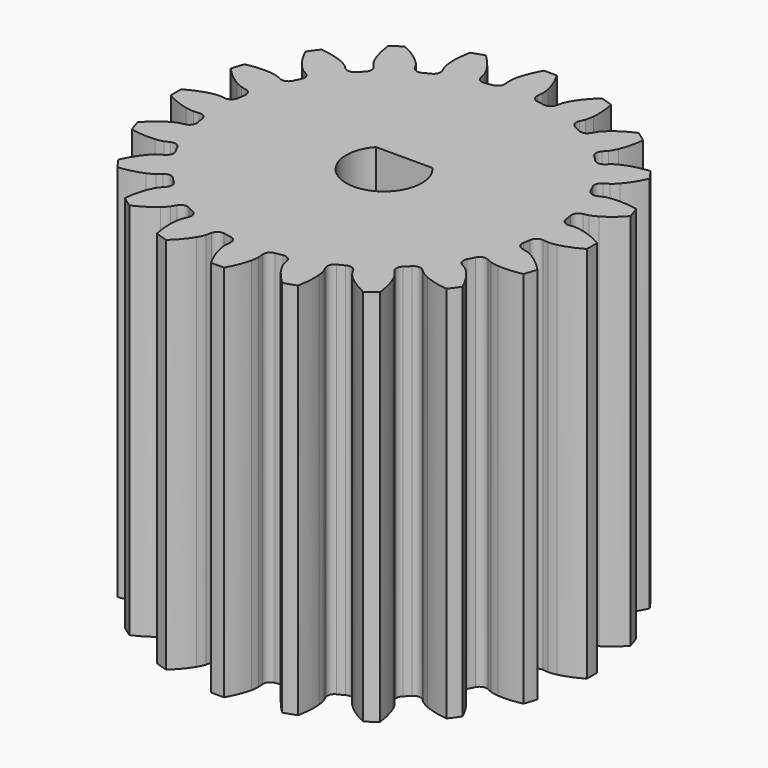
from build123d import *

# Parameters (mm, degrees)
PAD001_DEPTH = 15
PAD_DEPTH    = 15


with BuildPart() as body001:
    # Sketch → Pad001 (new body)
    with BuildSketch(Plane.XY):
        with BuildLine():
            ThreePointArc((-1.12, 1), (0, -1.501466), (1.12, 1))
            Line((-1.12, 1), (1.12, 1))
        make_face()
    extrude(amount=PAD001_DEPTH)


with BuildPart() as cut:
    # InvoluteGear → Pad (new body)
    with BuildSketch(Plane.XY):
        with BuildLine():
            Line((6.817626, -0.638928), (7.030391, -0.658303))
            add(Edge.make_bspline(
                [(7.030391, -0.658303), (7.065816, -0.659435), (7.172447, -0.658515), (7.350357, -0.619995)],
                knots=[0, 0, 0, 0, 1, 1, 1, 1], degree=3))
            add(Edge.make_bspline(
                [(7.350357, -0.619995), (7.563176, -0.573208), (7.869437, -0.473051), (8.246716, -0.260226)],
                knots=[0, 0, 0, 0, 1, 1, 1, 1], degree=3))
            ThreePointArc((8.246716, -0.260226), (8.250411, 0.000162), (8.245885, 0.260537))
            add(Edge.make_bspline(
                [(8.245885, 0.260537), (7.869437, 0.473051), (7.563176, 0.573208), (7.350357, 0.619995)],
                knots=[0, 0, 0, 0, 1, 1, 1, 1], degree=3))
            add(Edge.make_bspline(
                [(7.350357, 0.619995), (7.172447, 0.658515), (7.065816, 0.659435), (7.030391, 0.658303)],
                knots=[0, 0, 0, 0, 1, 1, 1, 1], degree=3))
            Line((7.030391, 0.658303), (6.817626, 0.638928))
            ThreePointArc((6.817626, 0.638928), (6.6103, 0.696997), (6.502754, 0.883517))
            ThreePointArc((6.502754, 0.883517), (6.481705, 1.026601), (6.457508, 1.169187))
            ThreePointArc((6.457508, 1.169187), (6.502153, 1.379812), (6.681388, 1.499105))
            Line((6.681388, 1.499105), (6.889726, 1.546427))
            add(Edge.make_bspline(
                [(6.889726, 1.546427), (6.923767, 1.556297), (7.024895, 1.590123), (7.182194, 1.681735)],
                knots=[0, 0, 0, 0, 1, 1, 1, 1], degree=3))
            add(Edge.make_bspline(
                [(7.182194, 1.681735), (7.370139, 1.791996), (7.63046, 1.981891), (7.923507, 2.300886)],
                knots=[0, 0, 0, 0, 1, 1, 1, 1], degree=3))
            ThreePointArc((7.923507, 2.300886), (7.846557, 2.549671), (7.761792, 2.795904))
            add(Edge.make_bspline(
                [(7.761792, 2.795904), (7.338098, 2.881688), (7.015877, 2.882303), (6.799016, 2.861036)],
                knots=[0, 0, 0, 0, 1, 1, 1, 1], degree=3))
            add(Edge.make_bspline(
                [(6.799016, 2.861036), (6.61791, 2.842693), (6.516214, 2.810617), (6.482872, 2.798593)],
                knots=[0, 0, 0, 0, 1, 1, 1, 1], degree=3))
            Line((6.482872, 2.798593), (6.286508, 2.714419))
            ThreePointArc((6.286508, 2.714419), (6.071385, 2.705578), (5.911464, 2.849736))
            ThreePointArc((5.911464, 2.849736), (5.84723, 2.979313), (5.780156, 3.107442))
            ThreePointArc((5.780156, 3.107442), (5.757529, 3.321555), (5.891128, 3.490396))
            Line((5.891128, 3.490396), (6.074646, 3.599782))
            add(Edge.make_bspline(
                [(6.074646, 3.599782), (6.103972, 3.619689), (6.189697, 3.683109), (6.310988, 3.818845)],
                knots=[0, 0, 0, 0, 1, 1, 1, 1], degree=3))
            add(Edge.make_bspline(
                [(6.310988, 3.818845), (6.455661, 3.981788), (6.644561, 4.242832), (6.82469, 4.636771)],
                knots=[0, 0, 0, 0, 1, 1, 1, 1], degree=3))
            ThreePointArc((6.82469, 4.636771), (6.674627, 4.849601), (6.517922, 5.057588))
            add(Edge.make_bspline(
                [(6.517922, 5.057588), (6.088456, 5.008245), (5.781814, 4.909258), (5.58214, 4.822018)],
                knots=[0, 0, 0, 0, 1, 1, 1, 1], degree=3))
            add(Edge.make_bspline(
                [(5.58214, 4.822018), (5.415566, 4.748609), (5.328759, 4.686677), (5.300765, 4.664938)],
                knots=[0, 0, 0, 0, 1, 1, 1, 1], degree=3))
            Line((5.300765, 4.664938), (5.140023, 4.524204))
            ThreePointArc((5.140023, 4.524204), (4.938161, 4.449319), (4.74152, 4.537003))
            ThreePointArc((4.74152, 4.537003), (4.640388, 4.640388), (4.537003, 4.74152))
            ThreePointArc((4.537003, 4.74152), (4.449319, 4.938161), (4.524204, 5.140023))
            Line((4.524204, 5.140023), (4.664938, 5.300765))
            add(Edge.make_bspline(
                [(4.664938, 5.300765), (4.686677, 5.328759), (4.748609, 5.415566), (4.822018, 5.58214)],
                knots=[0, 0, 0, 0, 1, 1, 1, 1], degree=3))
            add(Edge.make_bspline(
                [(4.822018, 5.58214), (4.909258, 5.781814), (5.008245, 6.088456), (5.057825, 6.518777)],
                knots=[0, 0, 0, 0, 1, 1, 1, 1], degree=3))
            ThreePointArc((5.057825, 6.518777), (4.849339, 6.674818), (4.636031, 6.824201))
            add(Edge.make_bspline(
                [(4.636031, 6.824201), (4.242832, 6.644561), (3.981788, 6.455661), (3.818845, 6.310988)],
                knots=[0, 0, 0, 0, 1, 1, 1, 1], degree=3))
            add(Edge.make_bspline(
                [(3.818845, 6.310988), (3.683109, 6.189697), (3.619689, 6.103972), (3.599782, 6.074646)],
                knots=[0, 0, 0, 0, 1, 1, 1, 1], degree=3))
            Line((3.599782, 6.074646), (3.490396, 5.891128))
            ThreePointArc((3.490396, 5.891128), (3.321555, 5.757529), (3.107442, 5.780156))
            ThreePointArc((3.107442, 5.780156), (2.979313, 5.84723), (2.849736, 5.911464))
            ThreePointArc((2.849736, 5.911464), (2.705578, 6.071385), (2.714419, 6.286508))
            Line((2.714419, 6.286508), (2.798593, 6.482872))
            add(Edge.make_bspline(
                [(2.798593, 6.482872), (2.810617, 6.516214), (2.842693, 6.61791), (2.861036, 6.799016)],
                knots=[0, 0, 0, 0, 1, 1, 1, 1], degree=3))
            add(Edge.make_bspline(
                [(2.861036, 6.799016), (2.882303, 7.015877), (2.881688, 7.338098), (2.795865, 7.762679)],
                knots=[0, 0, 0, 0, 1, 1, 1, 1], degree=3))
            ThreePointArc((2.795865, 7.762679), (2.549363, 7.846657), (2.300334, 7.922813))
            add(Edge.make_bspline(
                [(2.300334, 7.922813), (1.981891, 7.63046), (1.791996, 7.370139), (1.681735, 7.182194)],
                knots=[0, 0, 0, 0, 1, 1, 1, 1], degree=3))
            add(Edge.make_bspline(
                [(1.681735, 7.182194), (1.590123, 7.024895), (1.556297, 6.923767), (1.546427, 6.889726)],
                knots=[0, 0, 0, 0, 1, 1, 1, 1], degree=3))
            Line((1.546427, 6.889726), (1.499105, 6.681388))
            ThreePointArc((1.499105, 6.681388), (1.379812, 6.502153), (1.169187, 6.457508))
            ThreePointArc((1.169187, 6.457508), (1.026601, 6.481705), (0.883517, 6.502754))
            ThreePointArc((0.883517, 6.502754), (0.696997, 6.6103), (0.638928, 6.817626))
            Line((0.638928, 6.817626), (0.658303, 7.030391))
            add(Edge.make_bspline(
                [(0.658303, 7.030391), (0.659435, 7.065816), (0.658515, 7.172447), (0.619995, 7.350357)],
                knots=[0, 0, 0, 0, 1, 1, 1, 1], degree=3))
            add(Edge.make_bspline(
                [(0.619995, 7.350357), (0.573208, 7.563176), (0.473051, 7.869437), (0.260226, 8.246716)],
                knots=[0, 0, 0, 0, 1, 1, 1, 1], degree=3))
            ThreePointArc((0.260226, 8.246716), (-0.000162, 8.250411), (-0.260537, 8.245885))
            add(Edge.make_bspline(
                [(-0.260537, 8.245885), (-0.473051, 7.869437), (-0.573208, 7.563176), (-0.619995, 7.350357)],
                knots=[0, 0, 0, 0, 1, 1, 1, 1], degree=3))
            add(Edge.make_bspline(
                [(-0.619995, 7.350357), (-0.658515, 7.172447), (-0.659435, 7.065816), (-0.658303, 7.030391)],
                knots=[0, 0, 0, 0, 1, 1, 1, 1], degree=3))
            Line((-0.658303, 7.030391), (-0.638928, 6.817626))
            ThreePointArc((-0.638928, 6.817626), (-0.696997, 6.6103), (-0.883517, 6.502754))
            ThreePointArc((-0.883517, 6.502754), (-1.026601, 6.481705), (-1.169187, 6.457508))
            ThreePointArc((-1.169187, 6.457508), (-1.379812, 6.502153), (-1.499105, 6.681388))
            Line((-1.499105, 6.681388), (-1.546427, 6.889726))
            add(Edge.make_bspline(
                [(-1.546427, 6.889726), (-1.556297, 6.923767), (-1.590123, 7.024895), (-1.681735, 7.182194)],
                knots=[0, 0, 0, 0, 1, 1, 1, 1], degree=3))
            add(Edge.make_bspline(
                [(-1.681735, 7.182194), (-1.791996, 7.370139), (-1.981891, 7.63046), (-2.300886, 7.923507)],
                knots=[0, 0, 0, 0, 1, 1, 1, 1], degree=3))
            ThreePointArc((-2.300886, 7.923507), (-2.549671, 7.846557), (-2.795904, 7.761792))
            add(Edge.make_bspline(
                [(-2.795904, 7.761792), (-2.881688, 7.338098), (-2.882303, 7.015877), (-2.861036, 6.799016)],
                knots=[0, 0, 0, 0, 1, 1, 1, 1], degree=3))
            add(Edge.make_bspline(
                [(-2.861036, 6.799016), (-2.842693, 6.61791), (-2.810617, 6.516214), (-2.798593, 6.482872)],
                knots=[0, 0, 0, 0, 1, 1, 1, 1], degree=3))
            Line((-2.798593, 6.482872), (-2.714419, 6.286508))
            ThreePointArc((-2.714419, 6.286508), (-2.705578, 6.071385), (-2.849736, 5.911464))
            ThreePointArc((-2.849736, 5.911464), (-2.979313, 5.84723), (-3.107442, 5.780156))
            ThreePointArc((-3.107442, 5.780156), (-3.321555, 5.757529), (-3.490396, 5.891128))
            Line((-3.490396, 5.891128), (-3.599782, 6.074646))
            add(Edge.make_bspline(
                [(-3.599782, 6.074646), (-3.619689, 6.103972), (-3.683109, 6.189697), (-3.818845, 6.310988)],
                knots=[0, 0, 0, 0, 1, 1, 1, 1], degree=3))
            add(Edge.make_bspline(
                [(-3.818845, 6.310988), (-3.981788, 6.455661), (-4.242832, 6.644561), (-4.636771, 6.82469)],
                knots=[0, 0, 0, 0, 1, 1, 1, 1], degree=3))
            ThreePointArc((-4.636771, 6.82469), (-4.849601, 6.674627), (-5.057588, 6.517922))
            add(Edge.make_bspline(
                [(-5.057588, 6.517922), (-5.008245, 6.088456), (-4.909258, 5.781814), (-4.822018, 5.58214)],
                knots=[0, 0, 0, 0, 1, 1, 1, 1], degree=3))
            add(Edge.make_bspline(
                [(-4.822018, 5.58214), (-4.748609, 5.415566), (-4.686677, 5.328759), (-4.664938, 5.300765)],
                knots=[0, 0, 0, 0, 1, 1, 1, 1], degree=3))
            Line((-4.664938, 5.300765), (-4.524204, 5.140023))
            ThreePointArc((-4.524204, 5.140023), (-4.449319, 4.938161), (-4.537003, 4.74152))
            ThreePointArc((-4.537003, 4.74152), (-4.640388, 4.640388), (-4.74152, 4.537003))
            ThreePointArc((-4.74152, 4.537003), (-4.938161, 4.449319), (-5.140023, 4.524204))
            Line((-5.140023, 4.524204), (-5.300765, 4.664938))
            add(Edge.make_bspline(
                [(-5.300765, 4.664938), (-5.328759, 4.686677), (-5.415566, 4.748609), (-5.58214, 4.822018)],
                knots=[0, 0, 0, 0, 1, 1, 1, 1], degree=3))
            add(Edge.make_bspline(
                [(-5.58214, 4.822018), (-5.781814, 4.909258), (-6.088456, 5.008245), (-6.518777, 5.057825)],
                knots=[0, 0, 0, 0, 1, 1, 1, 1], degree=3))
            ThreePointArc((-6.518777, 5.057825), (-6.674818, 4.849339), (-6.824201, 4.636031))
            add(Edge.make_bspline(
                [(-6.824201, 4.636031), (-6.644561, 4.242832), (-6.455661, 3.981788), (-6.310988, 3.818845)],
                knots=[0, 0, 0, 0, 1, 1, 1, 1], degree=3))
            add(Edge.make_bspline(
                [(-6.310988, 3.818845), (-6.189697, 3.683109), (-6.103972, 3.619689), (-6.074646, 3.599782)],
                knots=[0, 0, 0, 0, 1, 1, 1, 1], degree=3))
            Line((-6.074646, 3.599782), (-5.891128, 3.490396))
            ThreePointArc((-5.891128, 3.490396), (-5.757529, 3.321555), (-5.780156, 3.107442))
            ThreePointArc((-5.780156, 3.107442), (-5.84723, 2.979313), (-5.911464, 2.849736))
            ThreePointArc((-5.911464, 2.849736), (-6.071385, 2.705578), (-6.286508, 2.714419))
            Line((-6.286508, 2.714419), (-6.482872, 2.798593))
            add(Edge.make_bspline(
                [(-6.482872, 2.798593), (-6.516214, 2.810617), (-6.61791, 2.842693), (-6.799016, 2.861036)],
                knots=[0, 0, 0, 0, 1, 1, 1, 1], degree=3))
            add(Edge.make_bspline(
                [(-6.799016, 2.861036), (-7.015877, 2.882303), (-7.338098, 2.881688), (-7.762679, 2.795865)],
                knots=[0, 0, 0, 0, 1, 1, 1, 1], degree=3))
            ThreePointArc((-7.762679, 2.795865), (-7.846657, 2.549363), (-7.922813, 2.300334))
            add(Edge.make_bspline(
                [(-7.922813, 2.300334), (-7.63046, 1.981891), (-7.370139, 1.791996), (-7.182194, 1.681735)],
                knots=[0, 0, 0, 0, 1, 1, 1, 1], degree=3))
            add(Edge.make_bspline(
                [(-7.182194, 1.681735), (-7.024895, 1.590123), (-6.923767, 1.556297), (-6.889726, 1.546427)],
                knots=[0, 0, 0, 0, 1, 1, 1, 1], degree=3))
            Line((-6.889726, 1.546427), (-6.681388, 1.499105))
            ThreePointArc((-6.681388, 1.499105), (-6.502153, 1.379812), (-6.457508, 1.169187))
            ThreePointArc((-6.457508, 1.169187), (-6.481705, 1.026601), (-6.502754, 0.883517))
            ThreePointArc((-6.502754, 0.883517), (-6.6103, 0.696997), (-6.817626, 0.638928))
            Line((-6.817626, 0.638928), (-7.030391, 0.658303))
            add(Edge.make_bspline(
                [(-7.030391, 0.658303), (-7.065816, 0.659435), (-7.172447, 0.658515), (-7.350357, 0.619995)],
                knots=[0, 0, 0, 0, 1, 1, 1, 1], degree=3))
            add(Edge.make_bspline(
                [(-7.350357, 0.619995), (-7.563176, 0.573208), (-7.869437, 0.473051), (-8.246716, 0.260226)],
                knots=[0, 0, 0, 0, 1, 1, 1, 1], degree=3))
            ThreePointArc((-8.246716, 0.260226), (-8.250411, -0.000162), (-8.245885, -0.260537))
            add(Edge.make_bspline(
                [(-8.245885, -0.260537), (-7.869437, -0.473051), (-7.563176, -0.573208), (-7.350357, -0.619995)],
                knots=[0, 0, 0, 0, 1, 1, 1, 1], degree=3))
            add(Edge.make_bspline(
                [(-7.350357, -0.619995), (-7.172447, -0.658515), (-7.065816, -0.659435), (-7.030391, -0.658303)],
                knots=[0, 0, 0, 0, 1, 1, 1, 1], degree=3))
            Line((-7.030391, -0.658303), (-6.817626, -0.638928))
            ThreePointArc((-6.817626, -0.638928), (-6.6103, -0.696997), (-6.502754, -0.883517))
            ThreePointArc((-6.502754, -0.883517), (-6.481705, -1.026601), (-6.457508, -1.169187))
            ThreePointArc((-6.457508, -1.169187), (-6.502153, -1.379812), (-6.681388, -1.499105))
            Line((-6.681388, -1.499105), (-6.889726, -1.546427))
            add(Edge.make_bspline(
                [(-6.889726, -1.546427), (-6.923767, -1.556297), (-7.024895, -1.590123), (-7.182194, -1.681735)],
                knots=[0, 0, 0, 0, 1, 1, 1, 1], degree=3))
            add(Edge.make_bspline(
                [(-7.182194, -1.681735), (-7.370139, -1.791996), (-7.63046, -1.981891), (-7.923507, -2.300886)],
                knots=[0, 0, 0, 0, 1, 1, 1, 1], degree=3))
            ThreePointArc((-7.923507, -2.300886), (-7.846557, -2.549671), (-7.761792, -2.795904))
            add(Edge.make_bspline(
                [(-7.761792, -2.795904), (-7.338098, -2.881688), (-7.015877, -2.882303), (-6.799016, -2.861036)],
                knots=[0, 0, 0, 0, 1, 1, 1, 1], degree=3))
            add(Edge.make_bspline(
                [(-6.799016, -2.861036), (-6.61791, -2.842693), (-6.516214, -2.810617), (-6.482872, -2.798593)],
                knots=[0, 0, 0, 0, 1, 1, 1, 1], degree=3))
            Line((-6.482872, -2.798593), (-6.286508, -2.714419))
            ThreePointArc((-6.286508, -2.714419), (-6.071385, -2.705578), (-5.911464, -2.849736))
            ThreePointArc((-5.911464, -2.849736), (-5.84723, -2.979313), (-5.780156, -3.107442))
            ThreePointArc((-5.780156, -3.107442), (-5.757529, -3.321555), (-5.891128, -3.490396))
            Line((-5.891128, -3.490396), (-6.074646, -3.599782))
            add(Edge.make_bspline(
                [(-6.074646, -3.599782), (-6.103972, -3.619689), (-6.189697, -3.683109), (-6.310988, -3.818845)],
                knots=[0, 0, 0, 0, 1, 1, 1, 1], degree=3))
            add(Edge.make_bspline(
                [(-6.310988, -3.818845), (-6.455661, -3.981788), (-6.644561, -4.242832), (-6.82469, -4.636771)],
                knots=[0, 0, 0, 0, 1, 1, 1, 1], degree=3))
            ThreePointArc((-6.82469, -4.636771), (-6.674627, -4.849601), (-6.517922, -5.057588))
            add(Edge.make_bspline(
                [(-6.517922, -5.057588), (-6.088456, -5.008245), (-5.781814, -4.909258), (-5.58214, -4.822018)],
                knots=[0, 0, 0, 0, 1, 1, 1, 1], degree=3))
            add(Edge.make_bspline(
                [(-5.58214, -4.822018), (-5.415566, -4.748609), (-5.328759, -4.686677), (-5.300765, -4.664938)],
                knots=[0, 0, 0, 0, 1, 1, 1, 1], degree=3))
            Line((-5.300765, -4.664938), (-5.140023, -4.524204))
            ThreePointArc((-5.140023, -4.524204), (-4.938161, -4.449319), (-4.74152, -4.537003))
            ThreePointArc((-4.74152, -4.537003), (-4.640388, -4.640388), (-4.537003, -4.74152))
            ThreePointArc((-4.537003, -4.74152), (-4.449319, -4.938161), (-4.524204, -5.140023))
            Line((-4.524204, -5.140023), (-4.664938, -5.300765))
            add(Edge.make_bspline(
                [(-4.664938, -5.300765), (-4.686677, -5.328759), (-4.748609, -5.415566), (-4.822018, -5.58214)],
                knots=[0, 0, 0, 0, 1, 1, 1, 1], degree=3))
            add(Edge.make_bspline(
                [(-4.822018, -5.58214), (-4.909258, -5.781814), (-5.008245, -6.088456), (-5.057825, -6.518777)],
                knots=[0, 0, 0, 0, 1, 1, 1, 1], degree=3))
            ThreePointArc((-5.057825, -6.518777), (-4.849339, -6.674818), (-4.636031, -6.824201))
            add(Edge.make_bspline(
                [(-4.636031, -6.824201), (-4.242832, -6.644561), (-3.981788, -6.455661), (-3.818845, -6.310988)],
                knots=[0, 0, 0, 0, 1, 1, 1, 1], degree=3))
            add(Edge.make_bspline(
                [(-3.818845, -6.310988), (-3.683109, -6.189697), (-3.619689, -6.103972), (-3.599782, -6.074646)],
                knots=[0, 0, 0, 0, 1, 1, 1, 1], degree=3))
            Line((-3.599782, -6.074646), (-3.490396, -5.891128))
            ThreePointArc((-3.490396, -5.891128), (-3.321555, -5.757529), (-3.107442, -5.780156))
            ThreePointArc((-3.107442, -5.780156), (-2.979313, -5.84723), (-2.849736, -5.911464))
            ThreePointArc((-2.849736, -5.911464), (-2.705578, -6.071385), (-2.714419, -6.286508))
            Line((-2.714419, -6.286508), (-2.798593, -6.482872))
            add(Edge.make_bspline(
                [(-2.798593, -6.482872), (-2.810617, -6.516214), (-2.842693, -6.61791), (-2.861036, -6.799016)],
                knots=[0, 0, 0, 0, 1, 1, 1, 1], degree=3))
            add(Edge.make_bspline(
                [(-2.861036, -6.799016), (-2.882303, -7.015877), (-2.881688, -7.338098), (-2.795865, -7.762679)],
                knots=[0, 0, 0, 0, 1, 1, 1, 1], degree=3))
            ThreePointArc((-2.795865, -7.762679), (-2.549363, -7.846657), (-2.300334, -7.922813))
            add(Edge.make_bspline(
                [(-2.300334, -7.922813), (-1.981891, -7.63046), (-1.791996, -7.370139), (-1.681735, -7.182194)],
                knots=[0, 0, 0, 0, 1, 1, 1, 1], degree=3))
            add(Edge.make_bspline(
                [(-1.681735, -7.182194), (-1.590123, -7.024895), (-1.556297, -6.923767), (-1.546427, -6.889726)],
                knots=[0, 0, 0, 0, 1, 1, 1, 1], degree=3))
            Line((-1.546427, -6.889726), (-1.499105, -6.681388))
            ThreePointArc((-1.499105, -6.681388), (-1.379812, -6.502153), (-1.169187, -6.457508))
            ThreePointArc((-1.169187, -6.457508), (-1.026601, -6.481705), (-0.883517, -6.502754))
            ThreePointArc((-0.883517, -6.502754), (-0.696997, -6.6103), (-0.638928, -6.817626))
            Line((-0.638928, -6.817626), (-0.658303, -7.030391))
            add(Edge.make_bspline(
                [(-0.658303, -7.030391), (-0.659435, -7.065816), (-0.658515, -7.172447), (-0.619995, -7.350357)],
                knots=[0, 0, 0, 0, 1, 1, 1, 1], degree=3))
            add(Edge.make_bspline(
                [(-0.619995, -7.350357), (-0.573208, -7.563176), (-0.473051, -7.869437), (-0.260226, -8.246716)],
                knots=[0, 0, 0, 0, 1, 1, 1, 1], degree=3))
            ThreePointArc((-0.260226, -8.246716), (0.000162, -8.250411), (0.260537, -8.245885))
            add(Edge.make_bspline(
                [(0.260537, -8.245885), (0.473051, -7.869437), (0.573208, -7.563176), (0.619995, -7.350357)],
                knots=[0, 0, 0, 0, 1, 1, 1, 1], degree=3))
            add(Edge.make_bspline(
                [(0.619995, -7.350357), (0.658515, -7.172447), (0.659435, -7.065816), (0.658303, -7.030391)],
                knots=[0, 0, 0, 0, 1, 1, 1, 1], degree=3))
            Line((0.658303, -7.030391), (0.638928, -6.817626))
            ThreePointArc((0.638928, -6.817626), (0.696997, -6.6103), (0.883517, -6.502754))
            ThreePointArc((0.883517, -6.502754), (1.026601, -6.481705), (1.169187, -6.457508))
            ThreePointArc((1.169187, -6.457508), (1.379812, -6.502153), (1.499105, -6.681388))
            Line((1.499105, -6.681388), (1.546427, -6.889726))
            add(Edge.make_bspline(
                [(1.546427, -6.889726), (1.556297, -6.923767), (1.590123, -7.024895), (1.681735, -7.182194)],
                knots=[0, 0, 0, 0, 1, 1, 1, 1], degree=3))
            add(Edge.make_bspline(
                [(1.681735, -7.182194), (1.791996, -7.370139), (1.981891, -7.63046), (2.300886, -7.923507)],
                knots=[0, 0, 0, 0, 1, 1, 1, 1], degree=3))
            ThreePointArc((2.300886, -7.923507), (2.549671, -7.846557), (2.795904, -7.761792))
            add(Edge.make_bspline(
                [(2.795904, -7.761792), (2.881688, -7.338098), (2.882303, -7.015877), (2.861036, -6.799016)],
                knots=[0, 0, 0, 0, 1, 1, 1, 1], degree=3))
            add(Edge.make_bspline(
                [(2.861036, -6.799016), (2.842693, -6.61791), (2.810617, -6.516214), (2.798593, -6.482872)],
                knots=[0, 0, 0, 0, 1, 1, 1, 1], degree=3))
            Line((2.798593, -6.482872), (2.714419, -6.286508))
            ThreePointArc((2.714419, -6.286508), (2.705578, -6.071385), (2.849736, -5.911464))
            ThreePointArc((2.849736, -5.911464), (2.979313, -5.84723), (3.107442, -5.780156))
            ThreePointArc((3.107442, -5.780156), (3.321555, -5.757529), (3.490396, -5.891128))
            Line((3.490396, -5.891128), (3.599782, -6.074646))
            add(Edge.make_bspline(
                [(3.599782, -6.074646), (3.619689, -6.103972), (3.683109, -6.189697), (3.818845, -6.310988)],
                knots=[0, 0, 0, 0, 1, 1, 1, 1], degree=3))
            add(Edge.make_bspline(
                [(3.818845, -6.310988), (3.981788, -6.455661), (4.242832, -6.644561), (4.636771, -6.82469)],
                knots=[0, 0, 0, 0, 1, 1, 1, 1], degree=3))
            ThreePointArc((4.636771, -6.82469), (4.849601, -6.674627), (5.057588, -6.517922))
            add(Edge.make_bspline(
                [(5.057588, -6.517922), (5.008245, -6.088456), (4.909258, -5.781814), (4.822018, -5.58214)],
                knots=[0, 0, 0, 0, 1, 1, 1, 1], degree=3))
            add(Edge.make_bspline(
                [(4.822018, -5.58214), (4.748609, -5.415566), (4.686677, -5.328759), (4.664938, -5.300765)],
                knots=[0, 0, 0, 0, 1, 1, 1, 1], degree=3))
            Line((4.664938, -5.300765), (4.524204, -5.140023))
            ThreePointArc((4.524204, -5.140023), (4.449319, -4.938161), (4.537003, -4.74152))
            ThreePointArc((4.537003, -4.74152), (4.640388, -4.640388), (4.74152, -4.537003))
            ThreePointArc((4.74152, -4.537003), (4.938161, -4.449319), (5.140023, -4.524204))
            Line((5.140023, -4.524204), (5.300765, -4.664938))
            add(Edge.make_bspline(
                [(5.300765, -4.664938), (5.328759, -4.686677), (5.415566, -4.748609), (5.58214, -4.822018)],
                knots=[0, 0, 0, 0, 1, 1, 1, 1], degree=3))
            add(Edge.make_bspline(
                [(5.58214, -4.822018), (5.781814, -4.909258), (6.088456, -5.008245), (6.518777, -5.057825)],
                knots=[0, 0, 0, 0, 1, 1, 1, 1], degree=3))
            ThreePointArc((6.518777, -5.057825), (6.674818, -4.849339), (6.824201, -4.636031))
            add(Edge.make_bspline(
                [(6.824201, -4.636031), (6.644561, -4.242832), (6.455661, -3.981788), (6.310988, -3.818845)],
                knots=[0, 0, 0, 0, 1, 1, 1, 1], degree=3))
            add(Edge.make_bspline(
                [(6.310988, -3.818845), (6.189697, -3.683109), (6.103972, -3.619689), (6.074646, -3.599782)],
                knots=[0, 0, 0, 0, 1, 1, 1, 1], degree=3))
            Line((6.074646, -3.599782), (5.891128, -3.490396))
            ThreePointArc((5.891128, -3.490396), (5.757529, -3.321555), (5.780156, -3.107442))
            ThreePointArc((5.780156, -3.107442), (5.84723, -2.979313), (5.911464, -2.849736))
            ThreePointArc((5.911464, -2.849736), (6.071385, -2.705578), (6.286508, -2.714419))
            Line((6.286508, -2.714419), (6.482872, -2.798593))
            add(Edge.make_bspline(
                [(6.482872, -2.798593), (6.516214, -2.810617), (6.61791, -2.842693), (6.799016, -2.861036)],
                knots=[0, 0, 0, 0, 1, 1, 1, 1], degree=3))
            add(Edge.make_bspline(
                [(6.799016, -2.861036), (7.015877, -2.882303), (7.338098, -2.881688), (7.762679, -2.795865)],
                knots=[0, 0, 0, 0, 1, 1, 1, 1], degree=3))
            ThreePointArc((7.762679, -2.795865), (7.846657, -2.549363), (7.922813, -2.300334))
            add(Edge.make_bspline(
                [(7.922813, -2.300334), (7.63046, -1.981891), (7.370139, -1.791996), (7.182194, -1.681735)],
                knots=[0, 0, 0, 0, 1, 1, 1, 1], degree=3))
            add(Edge.make_bspline(
                [(7.182194, -1.681735), (7.024895, -1.590123), (6.923767, -1.556297), (6.889726, -1.546427)],
                knots=[0, 0, 0, 0, 1, 1, 1, 1], degree=3))
            Line((6.889726, -1.546427), (6.681388, -1.499105))
            ThreePointArc((6.681388, -1.499105), (6.502153, -1.379812), (6.457508, -1.169187))
            ThreePointArc((6.457508, -1.169187), (6.481705, -1.026601), (6.502754, -0.883517))
            ThreePointArc((6.502754, -0.883517), (6.6103, -0.696997), (6.817626, -0.638928))
        make_face()
    extrude(amount=PAD_DEPTH)

    # Cut: cut Body001
    add(body001.part, mode=Mode.SUBTRACT)


solid = cut.part
